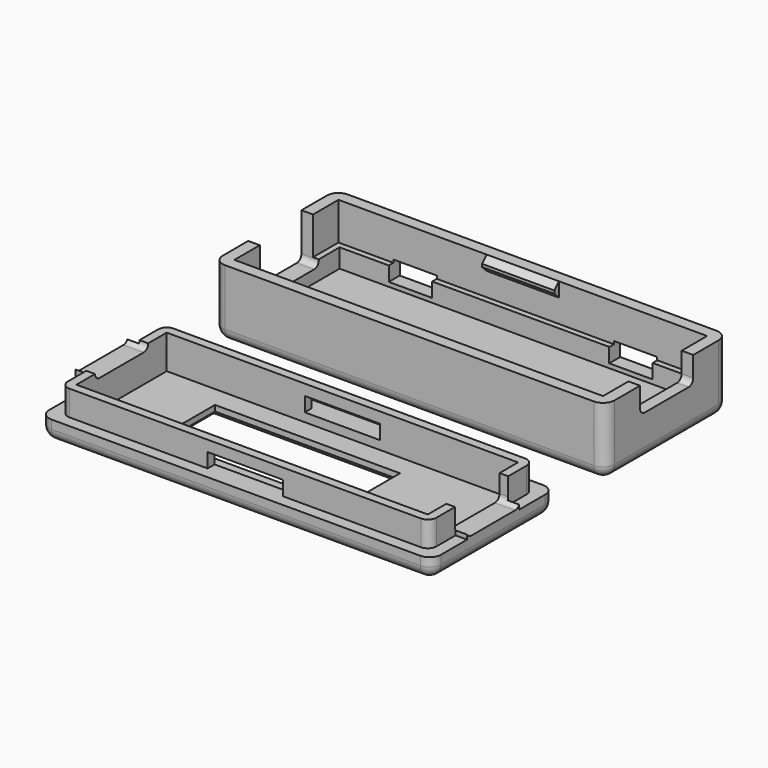
from build123d import *

# Parameters (mm, degrees)
BOX009_W        = 6
BOX009_H        = 10
BOX009_DEPTH    = 2.4
BOX006_W        = 10
BOX006_H        = 9.2
BOX006_DEPTH    = 7
FILLET002_R     = 0.8
BOX019_W        = 10
BOX019_H        = 9.2
BOX019_DEPTH    = 7
FILLET003_R     = 0.8
BOX008_W        = 6
BOX008_H        = 10
BOX008_DEPTH    = 2.4
BOX003_W        = 49.4
BOX003_H        = 16.4
BOX003_DEPTH    = 2.6
BOX002_W        = 51
BOX002_H        = 18
BOX002_DEPTH    = 2.6
BOX004_W        = 10
BOX004_H        = 1
BOX004_DEPTH    = 2
CHAMFER_SIZE    = 0.8
BOX005_W        = 10
BOX005_H        = 1
BOX005_DEPTH    = 2
CHAMFER001_SIZE = 0.8
BOX001_W        = 51
BOX001_H        = 18
BOX001_DEPTH    = 9.4
BOX_W           = 54.2
BOX_H           = 21.2
BOX_DEPTH       = 9.4
FILLET_R        = 1.6
CHAMFER002_SIZE = 0.5
BOX017_W        = 10.4
BOX017_H        = 5
BOX017_DEPTH    = 2
BOX018_W        = 10.4
BOX018_H        = 5
BOX018_DEPTH    = 2
BOX020_W        = 10
BOX020_H        = 9.2
BOX020_DEPTH    = 4.6
FILLET004_R     = 0.8
BOX021_W        = 10
BOX021_H        = 9.2
BOX021_DEPTH    = 6
FILLET005_R     = 0.8
BOX014_W        = 25.6
BOX014_H        = 9.8
BOX014_DEPTH    = 1.6
BOX013_W        = 48.6
BOX013_H        = 15.6
BOX013_DEPTH    = 4.8
BOX012_W        = 51
BOX012_H        = 18
BOX012_DEPTH    = 4.7
BOX022_W        = 1.6
BOX022_H        = 9
BOX022_DEPTH    = 5
BOX023_W        = 1.6
BOX023_H        = 9
BOX023_DEPTH    = 5
BOX011_W        = 51
BOX011_H        = 18
BOX011_DEPTH    = 9.4
BOX010_W        = 54.2
BOX010_H        = 21.2
BOX010_DEPTH    = 2.8
FILLET001_R     = 1.6
CHAMFER003_SIZE = 0.8
FILLET006_R     = 1.2


with BuildPart() as button2:
    # Box009 → Box009 (new body)
    with BuildSketch(Plane(origin=(38.1, 14, 2.2), x_dir=(1, 0, 0), z_dir=(0, 0, 1))):
        with Locations((3, 5)):
            Rectangle(BOX009_W, BOX009_H)
    extrude(amount=BOX009_DEPTH)


with BuildPart() as usb_buchse1:
    # Box006 → Box006 (new body)
    with BuildSketch(Plane(origin=(-5, 4.4, 3.3), x_dir=(1, 0, 0), z_dir=(0, 0, 1))):
        with Locations((5, 4.6)):
            Rectangle(BOX006_W, BOX006_H)
    extrude(amount=BOX006_DEPTH)

    # Fillet002
    fillet002_edges = [usb_buchse1.edges().sort_by_distance(p)[0] for p in [
        (0, 4.4, 3.3),
        (0, 13.6, 3.3),
    ]]
    fillet(fillet002_edges, radius=FILLET002_R)


with BuildPart() as usb_buchse2:
    # Box019 → Box019 (new body)
    with BuildSketch(Plane(origin=(47, 4.4, 5.8), x_dir=(1, 0, 0), z_dir=(0, 0, 1))):
        with Locations((5, 4.6)):
            Rectangle(BOX019_W, BOX019_H)
    extrude(amount=BOX019_DEPTH)

    # Fillet003
    fillet003_edges = [usb_buchse2.edges().sort_by_distance(p)[0] for p in [
        (52, 4.4, 5.8),
        (52, 13.6, 5.8),
    ]]
    fillet(fillet003_edges, radius=FILLET003_R)


with BuildPart() as bottom_cutouts:
    # Box008 → Box008 (new body)
    with BuildSketch(Plane(origin=(7.6, 14, 2.2), x_dir=(1, 0, 0), z_dir=(0, 0, 1))):
        with Locations((3, 5)):
            Rectangle(BOX008_W, BOX008_H)
    extrude(amount=BOX008_DEPTH)

    # Fusion001: union Button2, USB_Buchse1, USB_Buchse2
    add(button2.part)
    add(usb_buchse1.part)
    add(usb_buchse2.part)


with BuildPart() as auflage_innen:
    # Box003 → Box003 (new body)
    with BuildSketch(Plane(origin=(0.8, 0.8, 1.6), x_dir=(1, 0, 0), z_dir=(0, 0, 1))):
        with Locations((24.7, 8.2)):
            Rectangle(BOX003_W, BOX003_H)
    extrude(amount=BOX003_DEPTH)


with BuildPart() as auflage:
    # Box002 → Box002 (new body)
    with BuildSketch(Plane.XY.offset(1.6)):
        with Locations((25.5, 9)):
            Rectangle(BOX002_W, BOX002_H)
    extrude(amount=BOX002_DEPTH)

    # Cut001: cut Auflage_innen
    add(auflage_innen.part, mode=Mode.SUBTRACT)


with BuildPart() as haken1:
    # Box004 → Box004 (new body)
    with BuildSketch(Plane(origin=(20.5, -0.2, 7.4), x_dir=(1, 0, 0), z_dir=(0, 0, 1))):
        with Locations((5, 0.5)):
            Rectangle(BOX004_W, BOX004_H)
    extrude(amount=BOX004_DEPTH)

    # Chamfer
    chamfer_edges = [haken1.edges().sort_by_distance(p)[0] for p in [
        (25.5, 0.8, 7.4),
        (25.5, 0.8, 9.4),
    ]]
    chamfer(chamfer_edges, length=CHAMFER_SIZE)


with BuildPart() as haken2:
    # Box005 → Box005 (new body)
    with BuildSketch(Plane(origin=(20.5, 17.2, 7.4), x_dir=(1, 0, 0), z_dir=(0, 0, 1))):
        with Locations((5, 0.5)):
            Rectangle(BOX005_W, BOX005_H)
    extrude(amount=BOX005_DEPTH)

    # Chamfer001
    chamfer001_edges = [haken2.edges().sort_by_distance(p)[0] for p in [
        (25.5, 17.2, 7.4),
        (25.5, 17.2, 9.4),
    ]]
    chamfer(chamfer001_edges, length=CHAMFER001_SIZE)


with BuildPart() as unten_innen:
    # Box001 → Box001 (new body)
    with BuildSketch(Plane.XY.offset(1.6)):
        with Locations((25.5, 9)):
            Rectangle(BOX001_W, BOX001_H)
    extrude(amount=BOX001_DEPTH)


with BuildPart() as case_bottom:
    # Box → Box (new body)
    with BuildSketch(Plane(origin=(-1.6, -1.6, 0), x_dir=(1, 0, 0), z_dir=(0, 0, 1))):
        with Locations((27.1, 10.6)):
            Rectangle(BOX_W, BOX_H)
    extrude(amount=BOX_DEPTH)

    # Cut: cut unten_innen
    add(unten_innen.part, mode=Mode.SUBTRACT)

    # Fillet
    fillet_edges = [case_bottom.edges().sort_by_distance(p)[0] for p in [
        (-1.6, -1.6, 4.7),
        (-1.6, 19.6, 4.7),
        (-1.6, 9, 0),
        (25.5, -1.6, 0),
        (52.6, -1.6, 4.7),
        (25.5, 19.6, 0),
        (52.6, 19.6, 4.7),
        (52.6, 9, 0),
    ]]
    fillet(fillet_edges, radius=FILLET_R)

    # Fusion: union Auflage, Haken1, Haken2
    add(auflage.part)
    add(haken1.part)
    add(haken2.part)

    # Cut004: cut bottom_cutouts
    add(bottom_cutouts.part, mode=Mode.SUBTRACT)

    # Chamfer002
    chamfer002_edges = [case_bottom.edges().sort_by_distance(p)[0] for p in [
        (10.6, 19.6, 4.6),
        (13.6, 19.6, 3.4),
        (10.6, 19.6, 2.2),
        (7.6, 19.6, 3.4),
        (44.1, 19.6, 3.4),
        (41.1, 19.6, 2.2),
        (38.1, 19.6, 3.4),
        (41.1, 19.6, 4.6),
    ]]
    chamfer(chamfer002_edges, length=CHAMFER002_SIZE)


with BuildPart() as oese1:
    # Box017 → Box017 (new body)
    with BuildSketch(Plane(origin=(20.3, -33, 2.8), x_dir=(1, 0, 0), z_dir=(0, 0, 1))):
        with Locations((5.2, 2.5)):
            Rectangle(BOX017_W, BOX017_H)
    extrude(amount=BOX017_DEPTH)


with BuildPart() as oese2:
    # Box018 → Box018 (new body)
    with BuildSketch(Plane(origin=(20.3, -15, 2.8), x_dir=(1, 0, 0), z_dir=(0, 0, 1))):
        with Locations((5.2, 2.5)):
            Rectangle(BOX018_W, BOX018_H)
    extrude(amount=BOX018_DEPTH)


with BuildPart() as usb_buchse3:
    # Box020 → Box020 (new body)
    with BuildSketch(Plane(origin=(-5, -25.6, 5.5), x_dir=(1, 0, 0), z_dir=(0, 0, 1))):
        with Locations((5, 4.6)):
            Rectangle(BOX020_W, BOX020_H)
    extrude(amount=BOX020_DEPTH)

    # Fillet004
    fillet004_edges = [usb_buchse3.edges().sort_by_distance(p)[0] for p in [
        (0, -25.6, 5.5),
        (0, -16.4, 5.5),
    ]]
    fillet(fillet004_edges, radius=FILLET004_R)


with BuildPart() as usb_buchse4:
    # Box021 → Box021 (new body)
    with BuildSketch(Plane(origin=(47, -25.6, 3), x_dir=(1, 0, 0), z_dir=(0, 0, 1))):
        with Locations((5, 4.6)):
            Rectangle(BOX021_W, BOX021_H)
    extrude(amount=BOX021_DEPTH)

    # Fillet005
    fillet005_edges = [usb_buchse4.edges().sort_by_distance(p)[0] for p in [
        (52, -25.6, 3),
        (52, -16.4, 3),
    ]]
    fillet(fillet005_edges, radius=FILLET005_R)


with BuildPart() as top_cutouts:
    # Box014 → Box014 (new body)
    with BuildSketch(Plane(origin=(10.2, -25.9, 0), x_dir=(1, 0, 0), z_dir=(0, 0, 1))):
        with Locations((12.8, 4.9)):
            Rectangle(BOX014_W, BOX014_H)
    extrude(amount=BOX014_DEPTH)

    # Fusion003: union Oese1, Oese2, USB-Buchse3, USB-Buchse4
    add(oese1.part)
    add(oese2.part)
    add(usb_buchse3.part)
    add(usb_buchse4.part)


with BuildPart() as rahmen_innen:
    # Box013 → Box013 (new body)
    with BuildSketch(Plane(origin=(1.2, -28.8, 1.6), x_dir=(1, 0, 0), z_dir=(0, 0, 1))):
        with Locations((24.3, 7.8)):
            Rectangle(BOX013_W, BOX013_H)
    extrude(amount=BOX013_DEPTH)


with BuildPart() as rahmen:
    # Box012 → Box012 (new body)
    with BuildSketch(Plane(origin=(0, -30, 1.6), x_dir=(1, 0, 0), z_dir=(0, 0, 1))):
        with Locations((25.5, 9)):
            Rectangle(BOX012_W, BOX012_H)
    extrude(amount=BOX012_DEPTH)

    # Cut003: cut Rahmen_innen
    add(rahmen_innen.part, mode=Mode.SUBTRACT)


with BuildPart() as nut1:
    # Box022 → Box022 (new body)
    with BuildSketch(Plane(origin=(-1.6, -25.5, 2.8), x_dir=(1, 0, 0), z_dir=(0, 0, 1))):
        with Locations((0.8, 4.5)):
            Rectangle(BOX022_W, BOX022_H)
    extrude(amount=BOX022_DEPTH)


with BuildPart() as nut2:
    # Box023 → Box023 (new body)
    with BuildSketch(Plane(origin=(51, -25.5, 2.8), x_dir=(1, 0, 0), z_dir=(0, 0, 1))):
        with Locations((0.8, 4.5)):
            Rectangle(BOX023_W, BOX023_H)
    extrude(amount=BOX023_DEPTH)


with BuildPart() as oben_innen:
    # Box011 → Box011 (new body)
    with BuildSketch(Plane(origin=(0, -30, 1.6), x_dir=(1, 0, 0), z_dir=(0, 0, 1))):
        with Locations((25.5, 9)):
            Rectangle(BOX011_W, BOX011_H)
    extrude(amount=BOX011_DEPTH)


with BuildPart() as case_top:
    # Box010 → Box010 (new body)
    with BuildSketch(Plane(origin=(-1.6, -31.6, 0), x_dir=(1, 0, 0), z_dir=(0, 0, 1))):
        with Locations((27.1, 10.6)):
            Rectangle(BOX010_W, BOX010_H)
    extrude(amount=BOX010_DEPTH)

    # Cut002: cut oben_innen
    add(oben_innen.part, mode=Mode.SUBTRACT)

    # Fillet001
    fillet001_edges = [case_top.edges().sort_by_distance(p)[0] for p in [
        (-1.6, -31.6, 1.4),
        (-1.6, -10.4, 1.4),
        (-1.6, -21, 0),
        (25.5, -31.6, 0),
        (52.6, -31.6, 1.4),
        (25.5, -10.4, 0),
        (52.6, -10.4, 1.4),
        (52.6, -21, 0),
    ]]
    fillet(fillet001_edges, radius=FILLET001_R)

    # Fusion002: union Rahmen, Nut1, Nut2
    add(rahmen.part)
    add(nut1.part)
    add(nut2.part)

    # Cut005: cut top_cutouts
    add(top_cutouts.part, mode=Mode.SUBTRACT)

    # Chamfer003
    chamfer003_edges = [case_top.edges().sort_by_distance(p)[0] for p in [
        (35.8, -21, 0),
        (23, -16.1, 0),
        (10.2, -21, 0),
        (23, -25.9, 0),
    ]]
    chamfer(chamfer003_edges, length=CHAMFER003_SIZE)

    # Fillet006
    fillet006_edges = [case_top.edges().sort_by_distance(p)[0] for p in [
        (0, -30, 4.55),
        (51, -30, 4.55),
        (51, -12, 4.55),
        (0, -12, 4.55),
    ]]
    fillet(fillet006_edges, radius=FILLET006_R)


solid = Compound([case_bottom.part, case_top.part])
